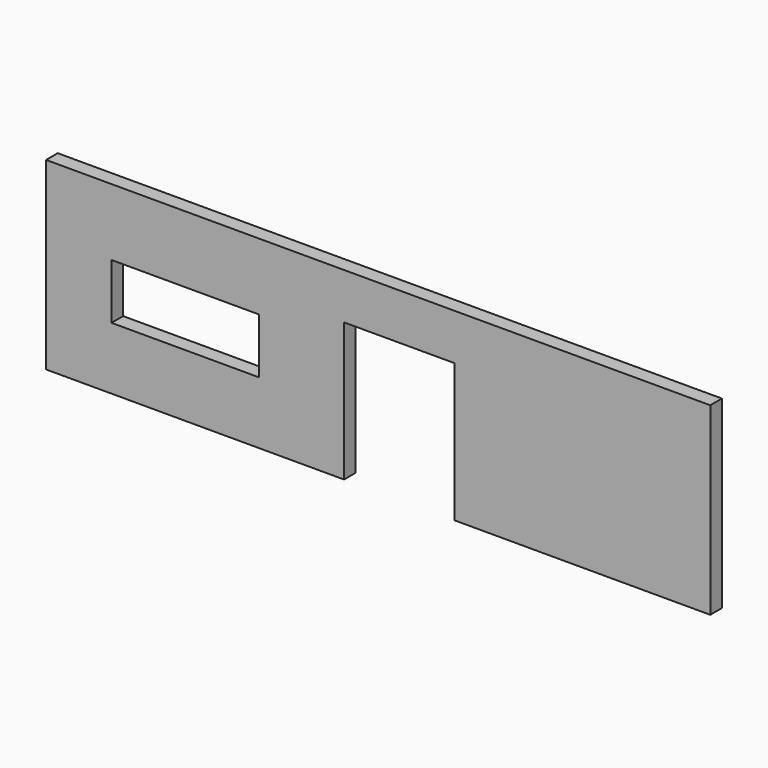
from build123d import *

# Parameters (mm, degrees)
F0_W     = 9144
F0_H     = 2540
F1_DEPTH = 200.5584
F2_W     = 2032
F2_H     = 762
F2_W_2   = 1524
F2_H_2   = 1905
F3_DEPTH = 210.312


with BuildPart() as f1:
    # F0 (on Front) → F1 (new body)
    with BuildSketch(Plane.XZ):
        with Locations((-4572, 1270)):
            Rectangle(F0_W, F0_H)
    extrude(amount=F1_DEPTH)

    # F2 (on face) → F3 (cut)
    with BuildSketch(Plane.XZ.offset(200.5584)):
        with Locations((-7227.665695, 1239.168257)):
            Rectangle(F2_W, F2_H)
        with Locations((-4280.099476, 952.5)):
            Rectangle(F2_W_2, F2_H_2)
    extrude(amount=-F3_DEPTH, mode=Mode.SUBTRACT)


solid = f1.part
